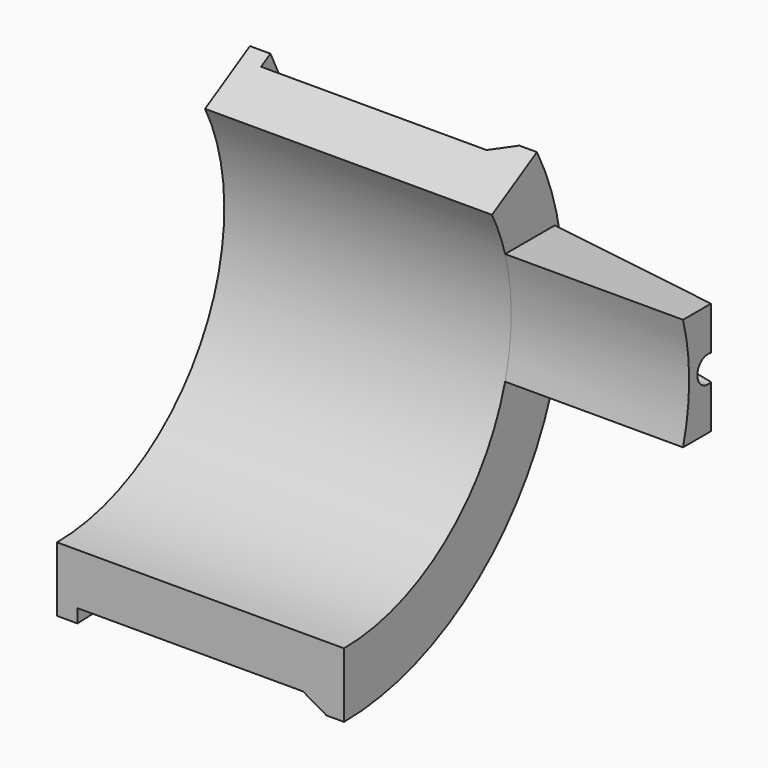
from build123d import *

# Parameters (mm, degrees)
PAD017_DEPTH    = 28
SKETCH059_R     = 1.3
POCKET008_DEPTH = 48


with BuildPart() as part:
    # Sketch055 → Pad017 (new body)
    with BuildSketch(Plane.YZ):
        with BuildLine():
            ThreePointArc((0, -20.4), (17.463482, -10.544515), (18.053328, 9.499334))
            Line((18.053328, 9.499334), (23.529825, 12.66119))
            ThreePointArc((0, -26.72), (22.937583, -13.704952), (23.529825, 12.66119))
            Line((0, -20.4), (0, -26.72))
        make_face()
    extrude(amount=-PAD017_DEPTH)

    # Sketch056 → AdditiveLoft002 section 0
    with BuildSketch(Plane.YZ):
        with BuildLine():
            Line((19.650206, 5.479909), (25.72, 5.479909))
            Line((25.72, 5.479909), (25.72, -5.479909))
            Line((25.72, -5.479909), (19.650206, -5.479909))
            ThreePointArc((19.650206, -5.479909), (20.4, 0), (19.650206, 5.479909))
        make_face()
    # Sketch057 → AdditiveLoft002 section 1
    with BuildSketch(Plane.YZ.offset(17.36)):
        with BuildLine():
            Line((19.650206, 5.479909), (23.06, 5.479909))
            Line((23.06, 5.479909), (23.06, -5.479909))
            Line((23.06, -5.479909), (19.650206, -5.479909))
            ThreePointArc((19.650206, -5.479909), (20.4, 0), (19.650206, 5.479909))
        make_face()
    loft()

    # Sketch058 → Groove001 (revolve, cut)
    with BuildSketch(Plane.XY):
        Polygon((-28, 27.4), (-26, 27.4), (-26, 25.4), (-4, 25.4), (0, 27.709401), (0, 63.2), (-28, 63.2), align=None)
    revolve(axis=Axis((0, 0, 0), (1, 0, 0)), mode=Mode.SUBTRACT)

    # Sketch059 → Pocket008 (cut)
    with BuildSketch(Plane.YZ.offset(20.4)):
        with Locations((22.695, 0)):
            Circle(SKETCH059_R)
    extrude(amount=-POCKET008_DEPTH, mode=Mode.SUBTRACT)


solid = part.part
